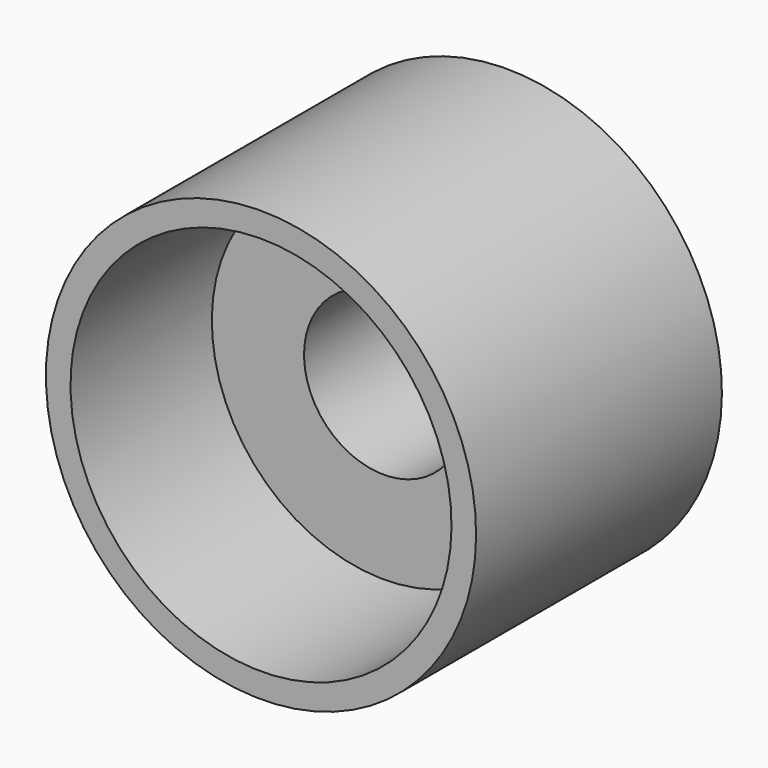
from build123d import *

# Parameters (mm, degrees)
SKETCH018_R         = 35
PAD013_DEPTH        = 50
SKETCH019_R         = 31
POCKET002_DEPTH     = 45
SKETCH020_R         = 28
PAD014_DEPTH        = 20
SKETCH021_R         = 13
POCKET003_DEPTH     = 25.001
BODY010_ROLL_ANGLE  = -90
BODY010_PITCH_ANGLE = -5


with BuildPart() as part:
    # Sketch018 → Pad013 (new body)
    with BuildSketch(Plane.XY):
        Circle(SKETCH018_R)
    extrude(amount=PAD013_DEPTH)

    # Sketch019 (on Face2 of Pad013) → Pocket002 (cut)
    with BuildSketch(Plane(origin=(0, 0, 0), x_dir=(1, 0, 0), z_dir=(0, 0, -1))):
        Circle(SKETCH019_R)
    extrude(amount=-POCKET002_DEPTH, mode=Mode.SUBTRACT)

    # Sketch020 (on Face5 of Pocket002) → Pad014 (join)
    with BuildSketch(Plane(origin=(0, 0, 45), x_dir=(1, 0, 0), z_dir=(0, 0, -1))):
        Circle(SKETCH020_R)
    extrude(amount=PAD014_DEPTH)

    # Sketch021 (on Face7 of Pad014) → Pocket003 (cut, through all)
    with BuildSketch(Plane(origin=(0, 0, 25), x_dir=(1, 0, 0), z_dir=(0, 0, -1))):
        Circle(SKETCH021_R)
    extrude(amount=-POCKET003_DEPTH, mode=Mode.SUBTRACT)


with BuildPart() as part_1:
    # Body010 roll: moved
    add(part.part.rotate(Axis((0, 0, 0), (1, 0, 0)), BODY010_ROLL_ANGLE))


with BuildPart() as part_2:
    # Body010 pitch: moved
    add(part_1.part.rotate(Axis((0, 0, 0), (0, 1, 0)), BODY010_PITCH_ANGLE))


with BuildPart() as part_3:
    # Body010 placement: moved
    add(part_2.part.moved(Location((0, -199.6, 0))))


solid = part_3.part
